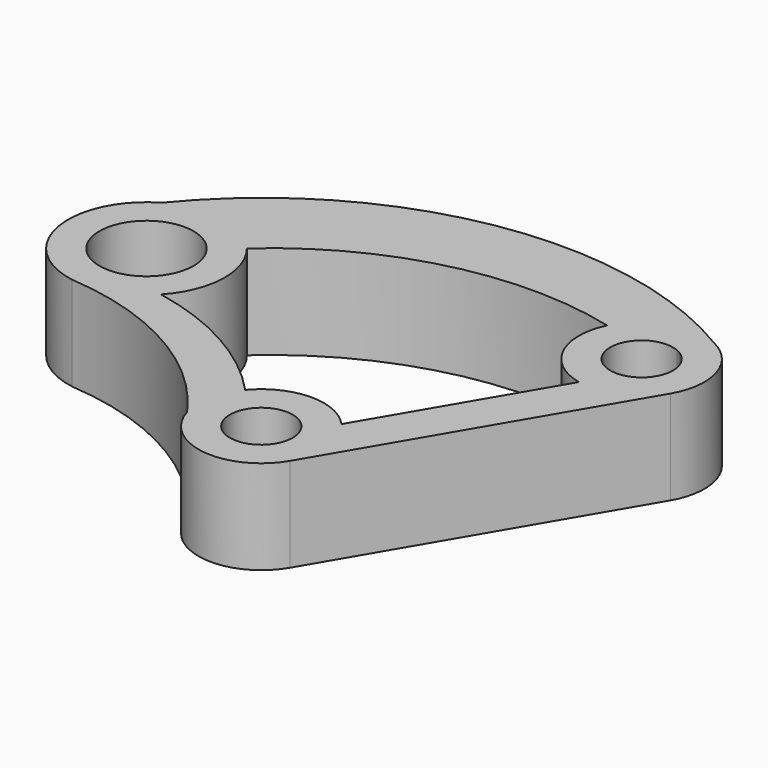
from build123d import *

# Parameters (mm, degrees)
F0_R     = 10
F0_R_2   = 15
F1_DEPTH = 30


with BuildPart() as f1:
    # F0 (on Top) → F1 (new body)
    with BuildSketch(Plane.XY):
        with BuildLine():
            ThreePointArc((-102.094431, -63.957171), (-64.413662, -75.366679), (-35.2084, -101.768761))
            ThreePointArc((-35.2084, -101.768761), (-18.480562, -116.08369), (1.268031, -106.350713))
            Line((1.268031, -106.350713), (52.539087, -18.84982))
            ThreePointArc((52.539087, -18.84982), (54.419614, -2.925211), (43.998788, 9.262321))
            ThreePointArc((43.998788, 9.262321), (-38.324812, 24.62013), (-110.645993, -17.601714))
            ThreePointArc((-110.645993, -17.601714), (-122.756415, -43.802336), (-102.094431, -63.957171))
        make_face()
        with Locations((-15.98787, -96.239636)):
            Circle(F0_R, mode=Mode.SUBTRACT)
        with Locations((-98.171258, -39.266916)):
            Circle(F0_R_2, mode=Mode.SUBTRACT)
        with BuildLine():
            ThreePointArc((-78.684837, -23.605518), (-33.646939, 0.196562), (17.293345, 0))
            ThreePointArc((17.293345, 0), (17.257109, -17.402491), (30.868778, -28.245485))
            Line((30.868778, -28.245485), (-1.128501, -82.853107))
            ThreePointArc((-1.128501, -82.853107), (-16.374126, -76.243366), (-31.353121, -83.436938))
            ThreePointArc((-31.353121, -83.436938), (-53.481935, -66.041519), (-79.902006, -56.332508))
            ThreePointArc((-79.902006, -56.332508), (-73.18853, -40.196064), (-78.684837, -23.605518))
        make_face(mode=Mode.SUBTRACT)
        with BuildLine():
            ThreePointArc((40.144707, 0), (43.903372, -3.669976), (45.283186, -8.738743))
            ThreePointArc((45.283186, -8.738743), (26.964558, -14.288555), (39.123102, 0.494623))
            ThreePointArc((39.123102, 0.494623), (39.640928, 0.261818), (40.144707, 0))
        make_face(mode=Mode.SUBTRACT)
    extrude(amount=F1_DEPTH)


solid = f1.part
